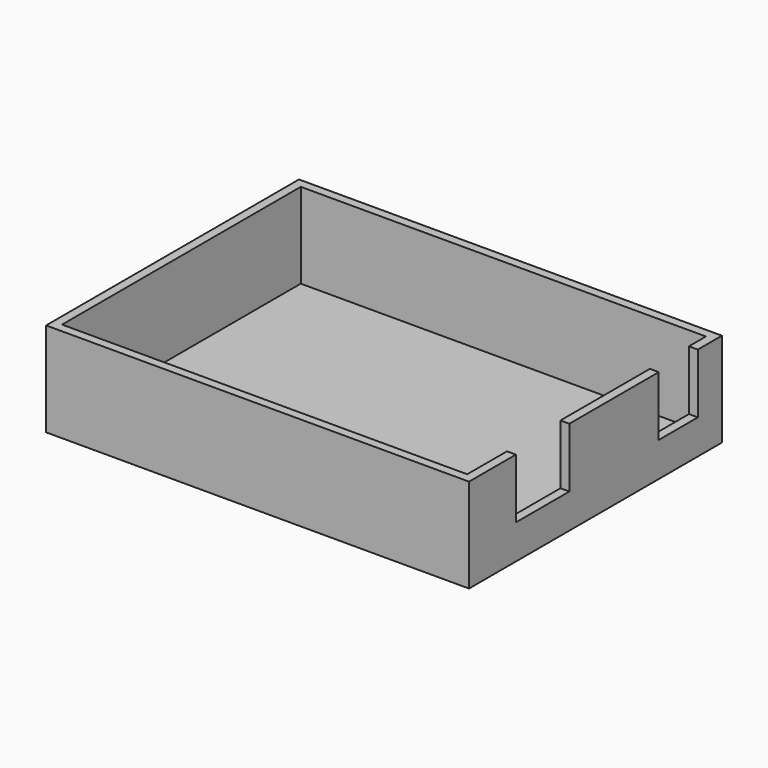
from build123d import *

# Parameters (mm, degrees)
F0_W     = 75.605
F0_H     = 56.515
F1_DEPTH = 16.8275
F2_T     = -1.5875
F3_W     = 11.938
F3_H     = 10.668
F3_W_2   = 8.73125
F4_DEPTH = 1.5875


with BuildPart() as f1:
    # F0 (on Top) → F1 (new body)
    with BuildSketch(Plane.XY):
        with Locations((15.93168, 1.055113)):
            Rectangle(F0_W, F0_H)
    extrude(amount=F1_DEPTH)

    # F2
    f2_openings = [f1.faces().sort_by_distance(p)[0] for p in [
        (15.93168, 1.055113, 16.8275),
    ]]
    offset(amount=F2_T, openings=f2_openings)

    # F3 (on face) → F4 (cut)
    with BuildSketch(Plane.YZ.offset(53.73418)):
        with Locations((-10.755887, 11.4935)):
            Rectangle(F3_W, F3_H)
        with Locations((19.562188, 11.4935)):
            Rectangle(F3_W_2, F3_H)
    extrude(amount=-F4_DEPTH, mode=Mode.SUBTRACT)


solid = f1.part
